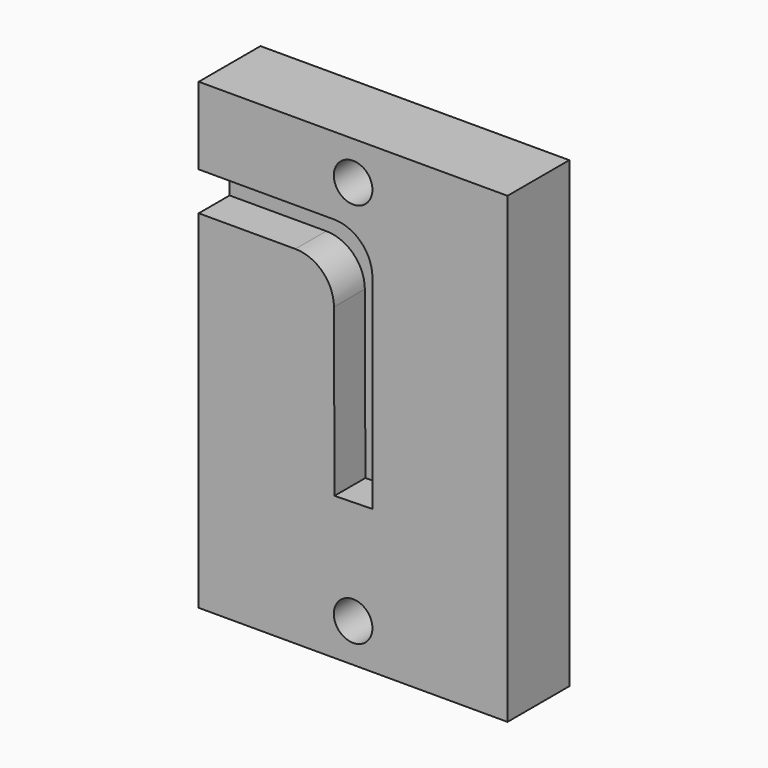
from build123d import *

# Parameters (mm, degrees)
F0_W     = 50.8
F0_H     = 76.2
F1_DEPTH = 12.7
F3_DEPTH = 6.35
F4_R     = 3.175
F5_DEPTH = 12.701


with BuildPart() as f1:
    # F0 (on Front) → F1 (new body)
    with BuildSketch(Plane.XZ):
        with Locations((25.4, 38.1)):
            Rectangle(F0_W, F0_H)
    extrude(amount=F1_DEPTH)

    # F2 (on face) → F3 (cut)
    with BuildSketch(Plane.XZ.offset(12.7)):
        with BuildLine():
            Line((22.225, 63.5), (0, 63.5))
            Line((0, 63.5), (0, 57.15))
            Line((0, 57.15), (15.896593, 57.15))
            ThreePointArc((15.896593, 57.15), (20.379061, 55.297775), (22.246556, 50.821648))
            Line((22.246556, 50.821648), (22.339729, 23.491532))
            Line((22.339729, 23.491532), (28.575, 23.61499))
            Line((28.575, 23.61499), (28.575, 57.15))
            ThreePointArc((28.575, 57.15), (26.715128, 61.640128), (22.225, 63.5))
        make_face()
    extrude(amount=-F3_DEPTH, mode=Mode.SUBTRACT)

    # F4 (on face) → F5 (cut, through all)
    with BuildSketch(Plane.XZ.offset(12.7)):
        with Locations((25.4, 69.85)):
            Circle(F4_R)
        with Locations((25.4, 6.35)):
            Circle(F4_R)
    extrude(amount=-F5_DEPTH, mode=Mode.SUBTRACT)


solid = f1.part
